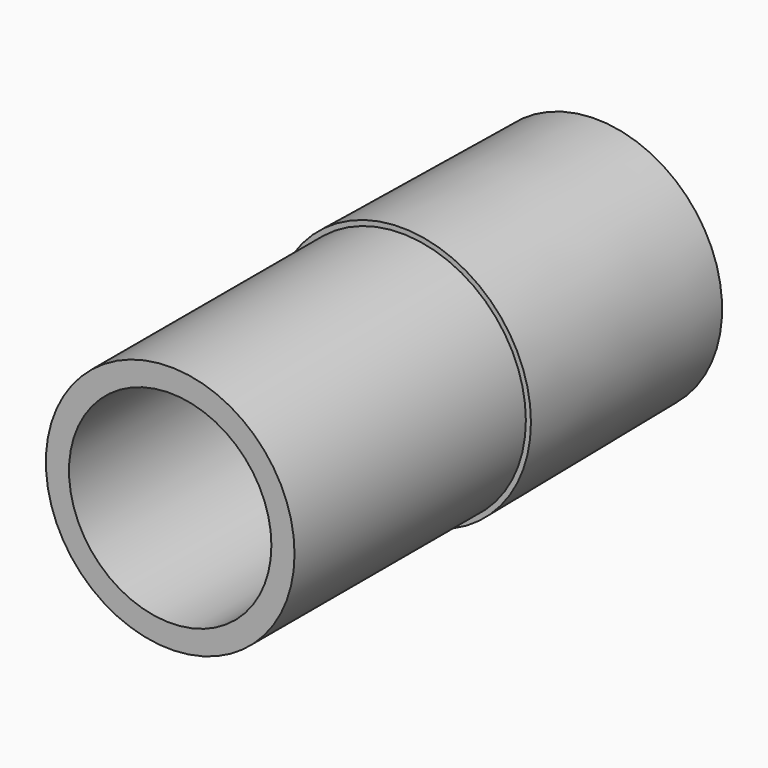
from build123d import *

# Parameters (mm, degrees)
CYLINDER005_R     = 8.75
CYLINDER005_DEPTH = 40
CYLINDER003_R     = 8.75
CYLINDER003_DEPTH = 40
CYLINDER007_R     = 10.75
CYLINDER007_DEPTH = 40


with BuildPart() as outletextension:
    # Cylinder005 → Cylinder005 (new body)
    with BuildSketch(Plane(origin=(20, 65.3, 13.5), x_dir=(1, 0, 0), z_dir=(0, -1, 0))):
        Circle(CYLINDER005_R)
    extrude(amount=CYLINDER005_DEPTH)


with BuildPart() as inside:
    # Cylinder003 → Cylinder003 (new body)
    with BuildSketch(Plane(origin=(20, 36.3, 13.5), x_dir=(1, 0, 0), z_dir=(0, -1, 0))):
        Circle(CYLINDER003_R)
    extrude(amount=CYLINDER003_DEPTH)

    # Fusion001: union OutletExtension
    add(outletextension.part)


with BuildPart() as housingoutlet:
    # Cylinder007 → Cylinder007 (new body)
    with BuildSketch(Plane(origin=(20, 59.3, 13.5), x_dir=(1, 0, 0), z_dir=(0, -1, 0))):
        Circle(CYLINDER007_R)
    extrude(amount=CYLINDER007_DEPTH)


with BuildPart() as bloweroutletadapter:
    # Cone001 → Cone001 (revolve)
    with BuildSketch(Plane(origin=(20, 65.3, 13.5), x_dir=(-1, 0, 0), z_dir=(0, 0, 1))):
        Polygon((0, 0), (10.92, 0), (11.19, 21), (0, 21), align=None)
    revolve(axis=Axis((20, 65.3, 13.5), (0, -1, 0)))

    # Fusion: union HousingOutlet
    add(housingoutlet.part)

    # Cut: cut inside
    add(inside.part, mode=Mode.SUBTRACT)


solid = bloweroutletadapter.part
